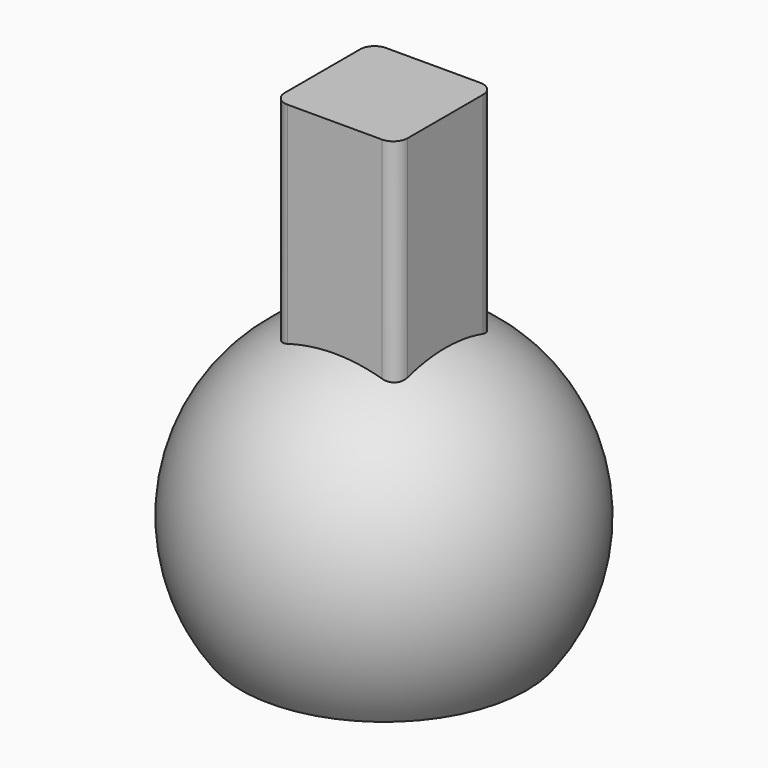
from build123d import *

# Parameters (mm, degrees)
F2_DEPTH = 2.15
F3_R     = 0.5


with BuildPart() as f1:
    # F0 (on Front) → F1 (revolve)
    with BuildSketch(Plane.XZ):
        with BuildLine():
            Line((-2.15, 0), (-2.15, 5.8685603004))
            ThreePointArc((-2.15, 5.8685603004), (-5.9924786661, 1.7755842522), (-5, -3.75))
            Line((-5, -3.75), (0, -3.75))
            Line((0, -3.75), (0, 0))
            Line((0, 0), (-2.15, 0))
        make_face()
        with BuildLine():
            Line((0, 0), (0, 6.25))
            ThreePointArc((0, 6.25), (-1.0917870951, 6.153901278), (-2.15, 5.8685603004))
            Line((-2.15, 5.8685603004), (-2.15, 0))
            Line((-2.15, 0), (0, 0))
        make_face()
    revolve(axis=Axis((0, 0, 1.25), (0, 0, -1)))

    # F0 (on Front) → F2 (join, symmetric)
    with BuildSketch(Plane.XZ):
        with BuildLine():
            Line((0, 0), (0, 6.25))
            ThreePointArc((0, 6.25), (-1.0917870951, 6.153901278), (-2.15, 5.8685603004))
            Line((-2.15, 5.8685603004), (-2.15, 0))
            Line((-2.15, 0), (0, 0))
        make_face()
        with BuildLine():
            ThreePointArc((-2.15, 5.8685603004), (-1.0917870951, 6.153901278), (0, 6.25))
            Line((0, 6.25), (0, 0))
            Line((0, 0), (2.15, 0))
            Line((2.15, 0), (2.15, 13))
            Line((2.15, 13), (-2.15, 13))
            Line((-2.15, 13), (-2.15, 5.8685603004))
        make_face()
    extrude(amount=F2_DEPTH, both=True)

    # F3
    f3_edges = [f1.edges().sort_by_distance(p)[0] for p in [
        (-2.15, -2.15, 9.23027),
        (-2.15, 2.15, 9.23027),
        (2.15, -2.15, 9.23027),
        (2.15, 2.15, 9.23027),
    ]]
    fillet(f3_edges, radius=F3_R)


solid = f1.part
